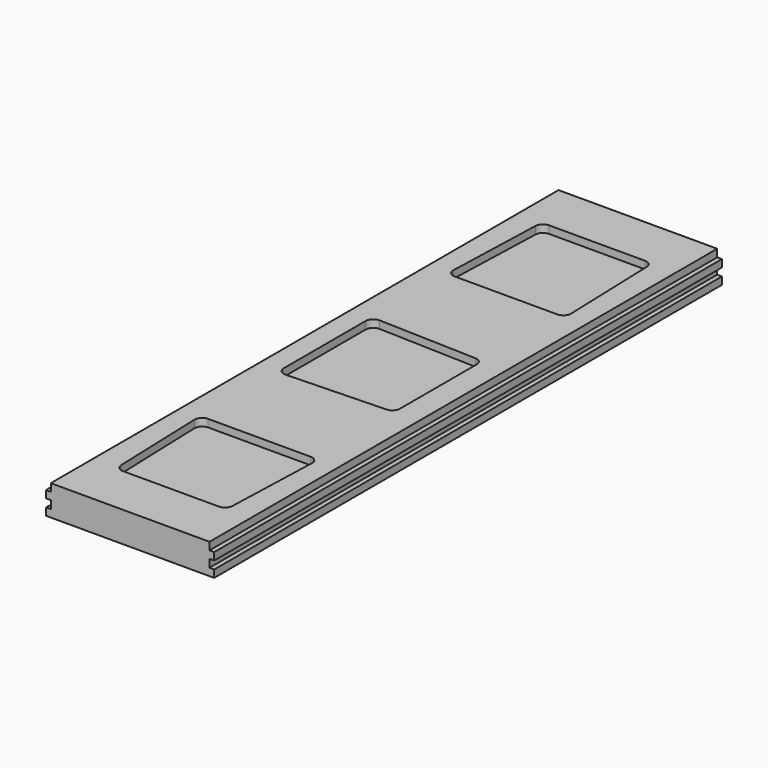
from build123d import *

# Parameters (mm, degrees)
F1_DEPTH = 419
F3_DEPTH = 5
F4_R     = 5


with BuildPart() as f1:
    # F0 (on Front) → F1 (new body)
    with BuildSketch(Plane.XZ):
        Polygon((-55.5, 0), (0, 0), (55.5, 0), (55.5, 4.9), (52.4, 4.9), (52.4, 10.1), (55.5, 10.1), (55.5, 15), (52.4, 15), (52.4, 20), (0, 20), (-52.4, 20), (-52.4, 15), (-55.5, 15), (-55.5, 10.1), (-52.4, 10.1), (-52.4, 4.9), (-55.5, 4.9), align=None)
    extrude(amount=-F1_DEPTH)

    # F2 (on face) → F3 (cut)
    with BuildSketch(Plane.XY.offset(20)):
        Polygon((36.5, 385.258278), (-36.5, 385.258278), (-39, 310.258278), (39, 310.258278), align=None)
        Polygon((-36.5, 33.708609), (36.5, 33.708609), (39, 106.708609), (-39, 106.708609), align=None)
        Polygon((36.258278, 172.5), (36.258278, 245.5), (-38.741722, 248), (-38.741722, 170), align=None)
    extrude(amount=-F3_DEPTH, mode=Mode.SUBTRACT)

    # F4
    f4_edges = [f1.edges().sort_by_distance(p)[0] for p in [
        (-36.5, 385.258278, 17.5),
        (36.5, 385.258278, 17.5),
        (-39, 310.258278, 17.5),
        (39, 310.258278, 17.5),
        (-38.741722, 248, 17.5),
        (36.258278, 245.5, 17.5),
        (39, 106.708609, 17.5),
        (-39, 106.708609, 17.5),
        (-38.741722, 170, 17.5),
        (36.258278, 172.5, 17.5),
        (36.5, 33.708609, 17.5),
        (-36.5, 33.708609, 17.5),
    ]]
    fillet(f4_edges, radius=F4_R)


solid = f1.part
